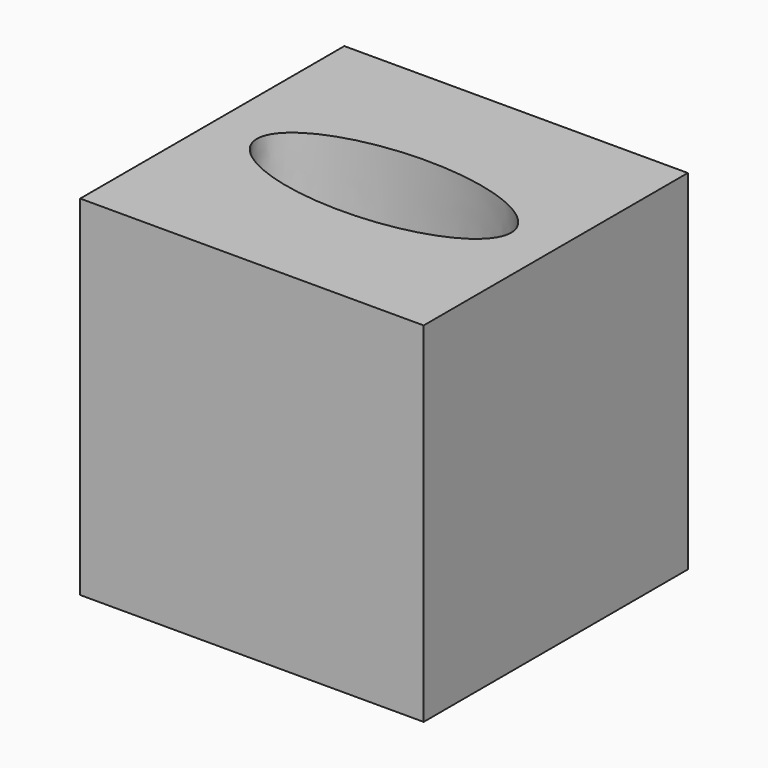
from build123d import *

# Parameters (mm, degrees)
F0_W     = 132.111123
F0_H     = 127
F1_DEPTH = 134.255305
F3_DEPTH = 134.256305


with BuildPart() as f1:
    # F0 (on Top) → F1 (new body)
    with BuildSketch(Plane.XY):
        with Locations((-30.477401, -63.5)):
            Rectangle(F0_W, F0_H)
    extrude(amount=F1_DEPTH)

    # F2 (on face) → F3 (cut, through all)
    with BuildSketch(Plane.XY.offset(134.255305)):
        with BuildLine():
            add(Edge.make_bspline(
                [(18.412042, -63.5), (18.412042, -27.533192), (-54.922124, -45.516596), (-128.25629, -63.5), (-54.922124, -81.483404), (18.412042, -99.466808), (18.412042, -63.5)],
                knots=[0, 0, 0, 2.094395, 2.094395, 4.18879, 4.18879, 6.283185, 6.283185, 6.283185], degree=2, weights=[1, 0.5, 1, 0.5, 1, 0.5, 1]))
        make_face()
        with BuildLine():
            add(Edge.make_bspline(
                [(18.412042, -63.5), (18.412042, -27.533192), (-54.922124, -45.516596), (-128.25629, -63.5), (-54.922124, -81.483404), (18.412042, -99.466808), (18.412042, -63.5)],
                knots=[0, 0, 0, 2.094395, 2.094395, 4.18879, 4.18879, 6.283185, 6.283185, 6.283185], degree=2, weights=[1, 0.5, 1, 0.5, 1, 0.5, 1]))
        make_face()
    extrude(amount=-F3_DEPTH, mode=Mode.SUBTRACT)


solid = f1.part
